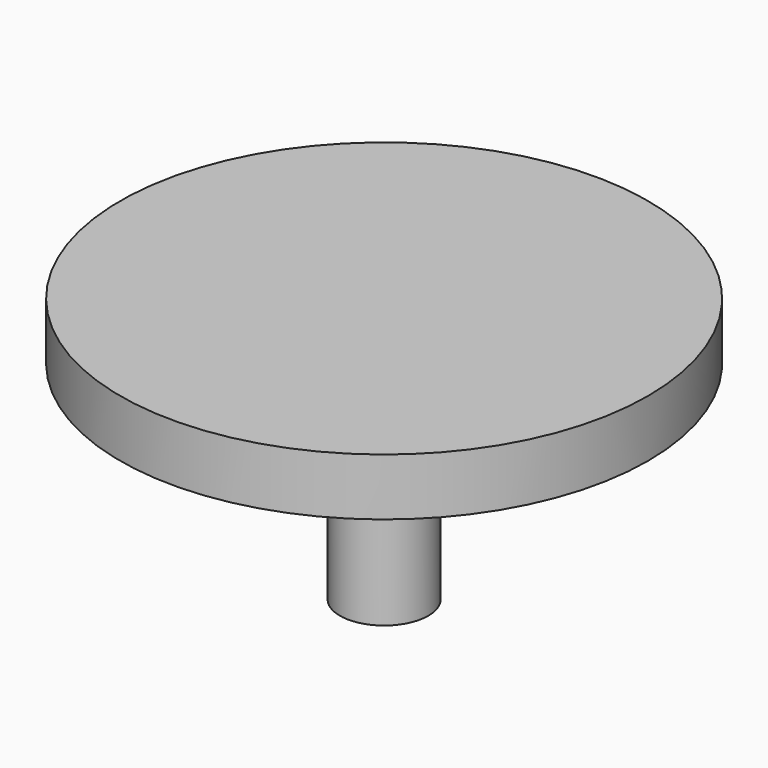
from build123d import *

# Parameters (mm, degrees)
F0_W = 4.25
F0_H = 20


with BuildPart() as f1:
    # F0 (on Front) → F1 (revolve)
    with BuildSketch(Plane.XZ):
        with Locations((2.125, -10)):
            Rectangle(F0_W, F0_H)
    revolve(axis=Axis((0, 0, -10), (0, 0, -1)))


with BuildPart() as f2:
    # F0 (on Front) → F2 (revolve)
    with BuildSketch(Plane.XZ):
        Polygon((0, 5.5), (0, 0), (4.25, 0), (25.4, 0), (25.4, 5.5), align=None)
    revolve(axis=Axis((0, 0, 2.75), (0, 0, 1)))


solid = Compound([f1.part, f2.part])
